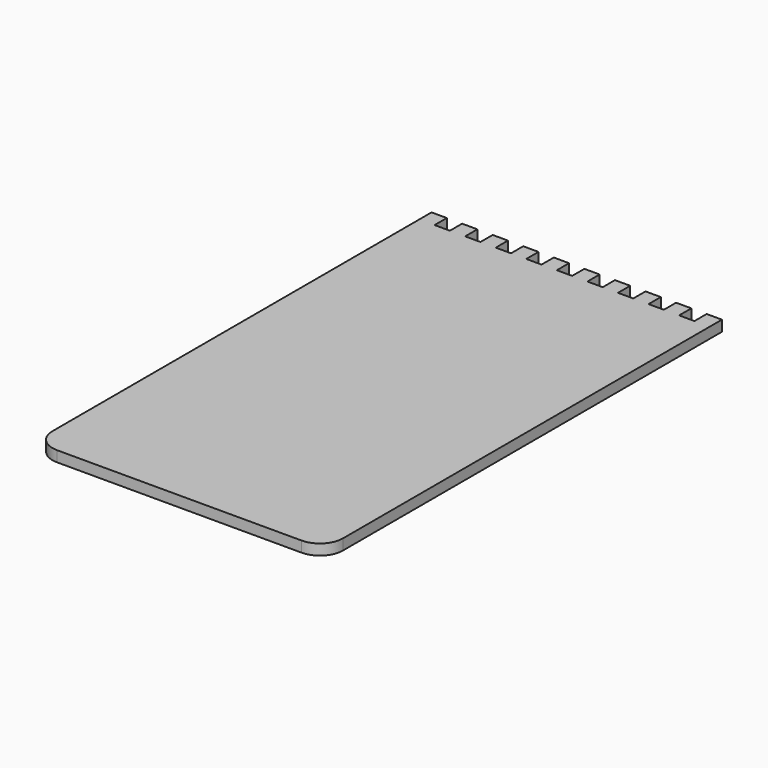
from build123d import *

# Parameters (mm, degrees)
F1_DEPTH = 1.4


with BuildPart() as f1:
    # F0 (on Top) → F1 (new body)
    with BuildSketch(Plane.XY):
        with BuildLine():
            Line((-18, 75), (-20, 75))
            Line((-20, 75), (-20, 73))
            Line((-20, 73), (-20, 13))
            ThreePointArc((-20, 13), (-19.12132, 10.87868), (-17, 10))
            Line((-17, 10), (-13, 10))
            Line((-13, 10), (13, 10))
            Line((13, 10), (15, 10))
            ThreePointArc((15, 10), (17.12132, 10.87868), (18, 13))
            Line((18, 13), (18, 73))
            Line((18, 73), (18, 75))
            Line((18, 75), (16, 75))
            Line((16, 75), (16, 73))
            Line((16, 73), (14, 73))
            Line((14, 73), (14, 75))
            Line((14, 75), (12, 75))
            Line((12, 75), (12, 73))
            Line((12, 73), (10, 73))
            Line((10, 73), (10, 75))
            Line((10, 75), (8, 75))
            Line((8, 75), (8, 73))
            Line((8, 73), (6, 73))
            Line((6, 73), (6, 75))
            Line((6, 75), (4, 75))
            Line((4, 75), (4, 73))
            Line((4, 73), (2, 73))
            Line((2, 73), (2, 75))
            Line((2, 75), (0, 75))
            Line((0, 75), (0, 73))
            Line((0, 73), (-2, 73))
            Line((-2, 73), (-2, 75))
            Line((-2, 75), (-4, 75))
            Line((-4, 75), (-4, 73))
            Line((-4, 73), (-6, 73))
            Line((-6, 73), (-6, 75))
            Line((-6, 75), (-8, 75))
            Line((-8, 75), (-8, 73))
            Line((-8, 73), (-10, 73))
            Line((-10, 73), (-10, 75))
            Line((-10, 75), (-12, 75))
            Line((-12, 75), (-12, 73))
            Line((-12, 73), (-14, 73))
            Line((-14, 73), (-14, 75))
            Line((-14, 75), (-16, 75))
            Line((-16, 75), (-16, 73))
            Line((-16, 73), (-18, 73))
            Line((-18, 73), (-18, 75))
        make_face()
    extrude(amount=F1_DEPTH)


solid = f1.part
